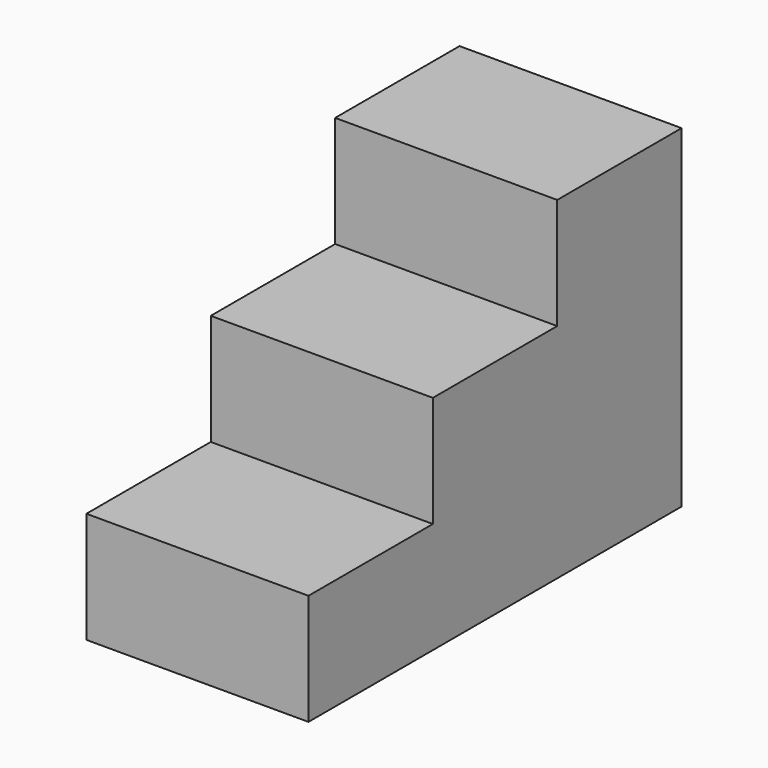
from build123d import *

# Parameters (mm, degrees)
F1_W     = 1270
F1_H     = 889
F2_DEPTH = 635
F3_W     = 1270
F3_H     = 889
F4_DEPTH = 1270
F0_W     = 1270
F0_H     = 889
F6_DEPTH = 1905


with BuildPart() as f2:
    # F1 (on face) → F2 (new body)
    with BuildSketch(Plane.XY):
        with Locations((-635, -2222.5)):
            Rectangle(F1_W, F1_H)
    extrude(amount=F2_DEPTH)

    # F3 (on face) → F4 (join)
    with BuildSketch(Plane.XY):
        with Locations((-635, -1333.5)):
            Rectangle(F3_W, F3_H)
    extrude(amount=F4_DEPTH)

    # F0 (on Top) → F6 (join)
    with BuildSketch(Plane.XY):
        with Locations((-635, -444.5)):
            Rectangle(F0_W, F0_H)
    extrude(amount=F6_DEPTH)


solid = f2.part
